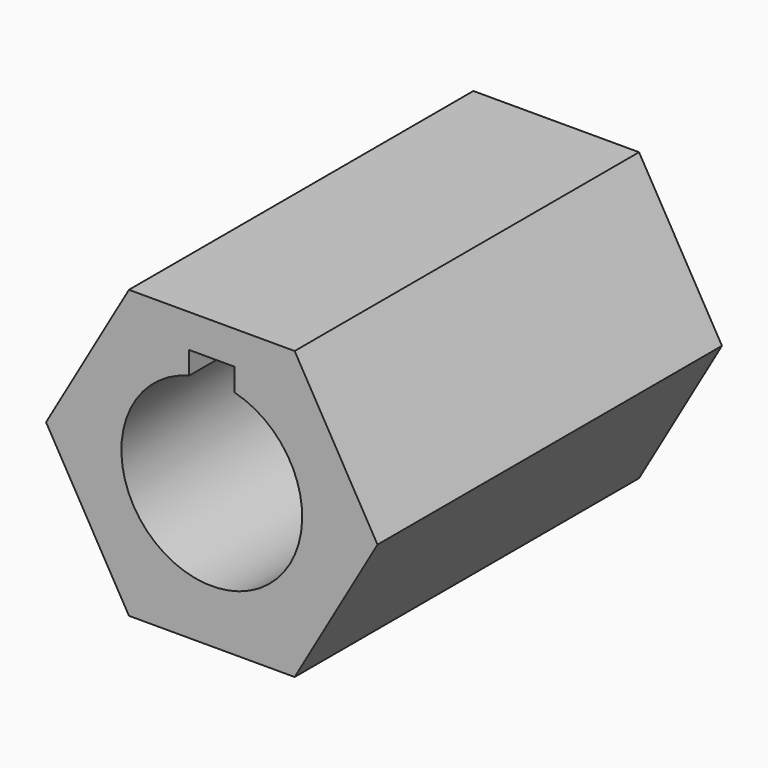
from build123d import *

# Parameters (mm, degrees)
F1_DEPTH = 19.05


with BuildPart() as f1:
    # F0 (on Front) → F1 (new body)
    with BuildSketch(Plane.XZ):
        Polygon((3.666174, 6.35), (-3.666174, 6.35), (-7.332348, 0), (-3.666174, -6.35), (3.666174, -6.35), (7.332348, 0), align=None)
        with BuildLine():
            ThreePointArc((1, 3.872983), (0, -4), (-1, 3.872983))
            Line((-1, 3.872983), (-1, 4.872983))
            Line((-1, 4.872983), (1, 4.872983))
            Line((1, 4.872983), (1, 3.872983))
        make_face(mode=Mode.SUBTRACT)
    extrude(amount=F1_DEPTH)


solid = f1.part
